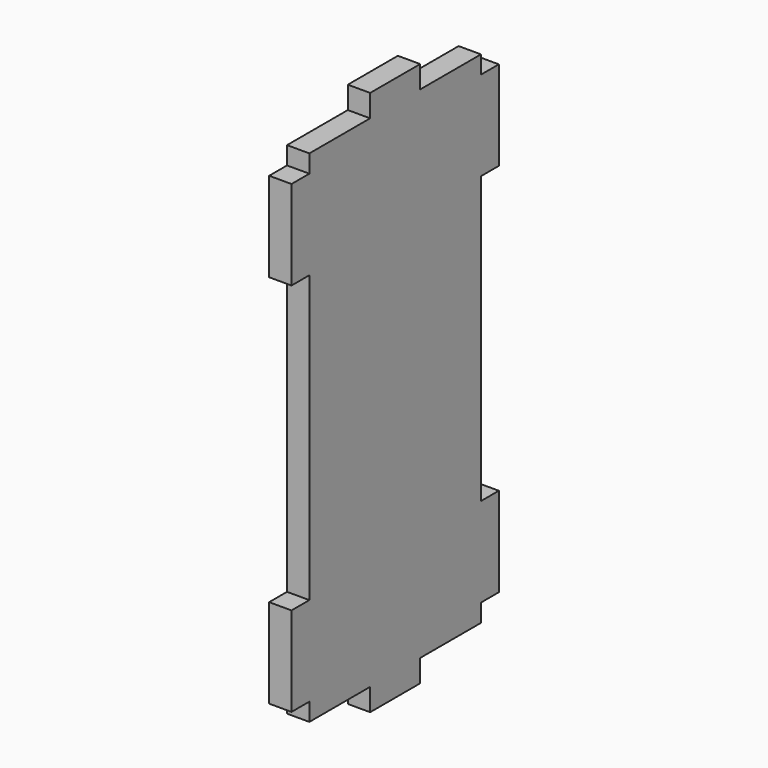
from build123d import *

# Parameters (mm, degrees)
F1_DEPTH = 5


with BuildPart() as f1:
    # F0 (on Right) → F1 (new body)
    with BuildSketch(Plane.YZ):
        Polygon((-7, 56), (-24, 56), (-24, 52), (-29, 52), (-29, 32), (-24, 32), (-24, -32), (-29, -32), (-29, -52), (-24, -52), (-24, -56), (-7, -56), (-7, -61), (7, -61), (7, -56), (24, -56), (24, -52), (29, -52), (29, -32), (24, -32), (24, 32), (29, 32), (29, 52), (24, 52), (24, 56), (7, 56), (7, 61), (-7, 61), align=None)
    extrude(amount=F1_DEPTH)


solid = f1.part
